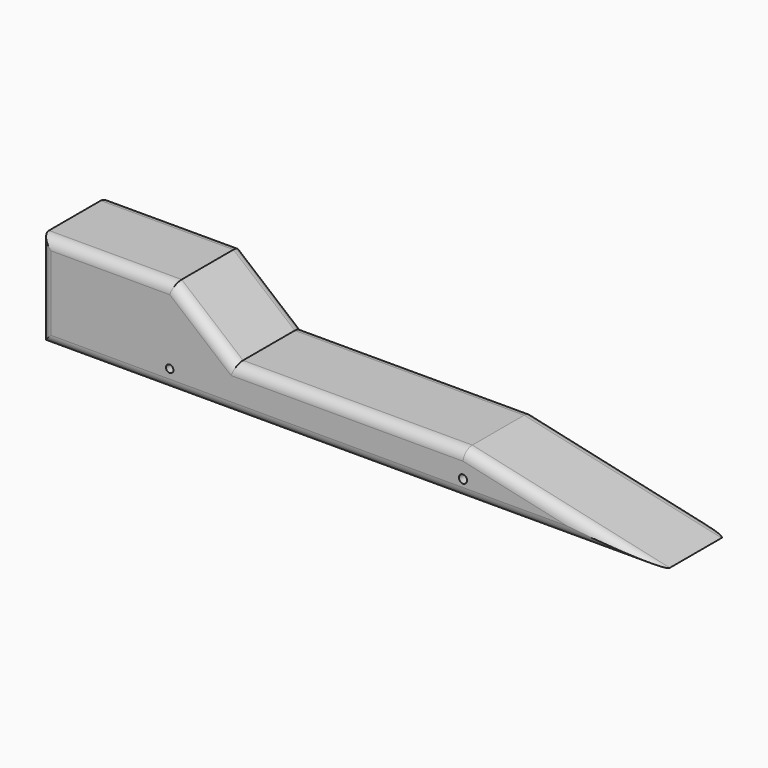
from build123d import *

# Parameters (mm, degrees)
F0_W      = 304.8
F0_H      = 41.91
F1_DEPTH  = 72.39
F3_DEPTH  = 44.45
F4_R      = 9.525
F5_DEPTH  = 52.07
F7_DEPTH  = 42.164
F9_DEPTH  = 43.18
F10_R     = 5.08
F11_R     = 5.08
F12_R     = 1.8364316327
F13_DEPTH = 50.8
F14_R     = 2.0092193571
F15_DEPTH = 50.8


with BuildPart() as f1:
    # F0 (on Top) → F1 (new body)
    with BuildSketch(Plane.XY):
        with Locations((152.4, 20.955)):
            Rectangle(F0_W, F0_H)
    extrude(amount=F1_DEPTH)

    # F2 (on face) → F3 (cut)
    with BuildSketch(Plane.XZ):
        Polygon((304.8, 72.39), (0, 72.39), (304.8, 19.05), align=None)
    extrude(amount=-F3_DEPTH, mode=Mode.SUBTRACT)

    # F4 (on face) → F5 (cut)
    with BuildSketch(Plane(origin=(0, 0, 0), x_dir=(0, -1, 0), z_dir=(-1, 0, 0))):
        with Locations((-20.955, 31.115)):
            Circle(F4_R)
    extrude(amount=-F5_DEPTH, mode=Mode.SUBTRACT)

    # F6 (on face) → F7 (cut)
    with BuildSketch(Plane.XZ):
        Polygon((0, 72.39), (0, 53.7492334843), (68.9350515604, 53.7492334843), (95.2856466174, 29.7941416502), (207.8745663166, 29.7941416502), (304.8, 0), (304.8, 19.05), align=None)
    extrude(amount=-F7_DEPTH, mode=Mode.SUBTRACT)

    # F8 (on face) → F9 (cut)
    with BuildSketch(Plane.XZ):
        Polygon((0, 53.7492334843), (0, 46.6843768954), (65.1628002524, 46.6843768954), (95.2856466174, 21.5315297246), (207.8745663166, 21.5315297246), (304.8, 0), (207.8745663166, 29.7941416502), (95.2856466174, 29.7941416502), (68.9350515604, 53.7492334843), align=None)
    extrude(amount=-F9_DEPTH, mode=Mode.SUBTRACT)

    # F10
    f10_edges = [f1.edges().sort_by_distance(p)[0] for p in [
        (152.4, 0, 0),
        (256.337283, 0, 10.765765),
        (151.580106, 0, 21.53153),
        (80.224223, 0, 34.107953),
        (32.5814, 0, 46.684377),
        (0, 0, 23.342188),
    ]]
    fillet(f10_edges, radius=F10_R)

    # F11
    f11_edges = [f1.edges().sort_by_distance(p)[0] for p in [
        (152.4, 41.91, 0),
        (0, 41.91, 23.342188),
        (32.5814, 41.91, 46.684377),
        (80.224223, 41.91, 34.107953),
        (151.580106, 41.91, 21.53153),
        (256.337283, 41.91, 10.765765),
    ]]
    fillet(f11_edges, radius=F11_R)

    # F12 (on face) → F13 (cut)
    with BuildSketch(Plane.XZ):
        with Locations((63.3207473448, 9.5940940082)):
            Circle(F12_R)
    extrude(amount=-F13_DEPTH, mode=Mode.SUBTRACT)

    # F14 (on face) → F15 (cut)
    with BuildSketch(Plane.XZ):
        with Locations((207.3171118243, 8.7452335283)):
            Circle(F14_R)
    extrude(amount=-F15_DEPTH, mode=Mode.SUBTRACT)


solid = f1.part
